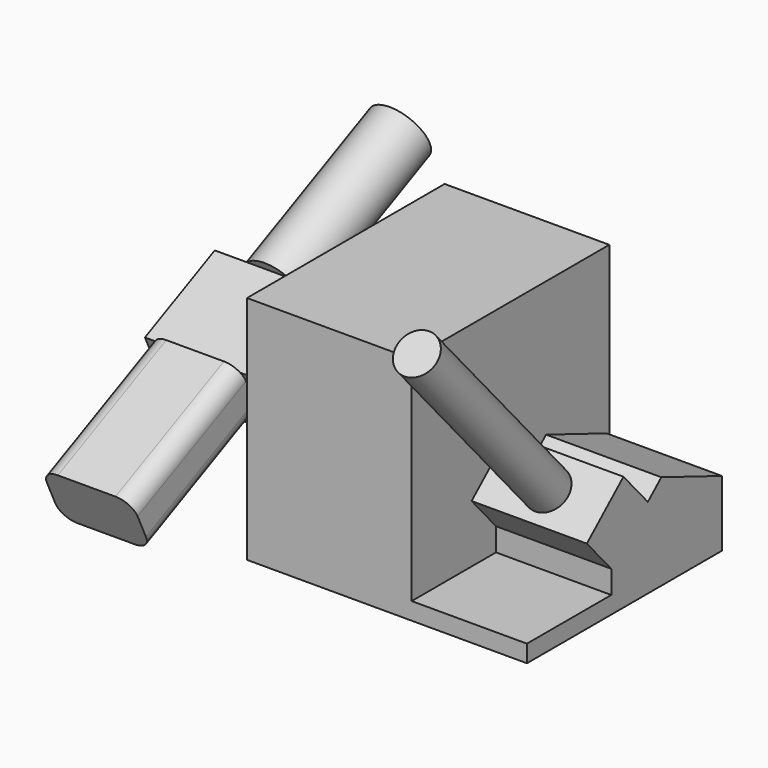
from build123d import *

# Parameters (mm, degrees)
F0_W      = 100
F0_H      = 150
F1_DEPTH  = 140
F2_W      = 70
F2_H      = 148
F3_DEPTH  = 85
F5_DEPTH  = 70
F6_R      = 12.5
F7_DEPTH  = 150
F9_DEPTH  = 64
F10_R     = 18
F11_DEPTH = 105
F13_DEPTH = 91


with BuildPart() as f1:
    # F0 (on Top) → F1 (new body)
    with BuildSketch(Plane.XY):
        Rectangle(F0_W, F0_H)
    extrude(amount=F1_DEPTH)

    # F2 (on Top) → F3 (join)
    with BuildSketch(Plane.XY):
        with Locations((85, -1)):
            Rectangle(F2_W, F2_H)
    extrude(amount=F3_DEPTH)

    # F4 (on face) → F5 (cut, through all)
    with BuildSketch(Plane.YZ.offset(120)):
        Polygon((27, 58), (73, 40), (73, 85), (-75, 85), (-75, 10.5), (-11, 10.5), (-11, 24.5), (-29.5162637007, 45.5035230037), (-1.7616083029, 69.9714428939), (16.7546553978, 48.9679198901), align=None)
    extrude(amount=-F5_DEPTH, mode=Mode.SUBTRACT)

    # F6 (on face) → F7 (join)
    with BuildSketch(Plane(origin=(0, -35.4800240514, 40.2459974314), x_dir=(1, 0, 0), z_dir=(0, -0.6612951322, 0.7501258216))):
        with Locations((85, 26.4503467009)):
            Circle(F6_R)
    extrude(amount=F7_DEPTH)

    # F8 (on face) → F9 (join)
    with BuildSketch(Plane(origin=(-50, 0, 0), x_dir=(0, -1, 0), z_dir=(-1, 0, 0))):
        Polygon((2, 85), (55, 60), (72.4913657042, 97.081695293), (19.4913657042, 122.081695293), align=None)
    extrude(amount=F9_DEPTH)

    # F10 (on face) → F11 (join)
    with BuildSketch(Plane(origin=(0, 31.1610366919, 14.6986022132), x_dir=(-1, 0, 0), z_dir=(0, 0.9044315925, 0.4266186757))):
        with Locations((82, 105.7299227149)):
            Circle(F10_R)
    extrude(amount=F11_DEPTH)

    # F12 (on face) → F13 (join)
    with BuildSketch(Plane(origin=(0, -21.8389633081, -10.3013977868), x_dir=(1, 0, 0), z_dir=(0, -0.9044315925, -0.4266186757))):
        with BuildLine():
            ThreePointArc((-109.5, 98.2299227149), (-106.5710678119, 91.158854903), (-99.5, 88.2299227149))
            Line((-99.5, 88.2299227149), (-64.5, 88.2299227149))
            ThreePointArc((-64.5, 88.2299227149), (-57.4289321881, 91.158854903), (-54.5, 98.2299227149))
            Line((-54.5, 98.2299227149), (-54.5, 113.2299227149))
            ThreePointArc((-54.5, 113.2299227149), (-57.4289321881, 120.3009905268), (-64.5, 123.2299227149))
            Line((-64.5, 123.2299227149), (-99.5, 123.2299227149))
            ThreePointArc((-99.5, 123.2299227149), (-106.5710678119, 120.3009905268), (-109.5, 113.2299227149))
            Line((-109.5, 113.2299227149), (-109.5, 98.2299227149))
        make_face()
    extrude(amount=F13_DEPTH)


solid = f1.part
